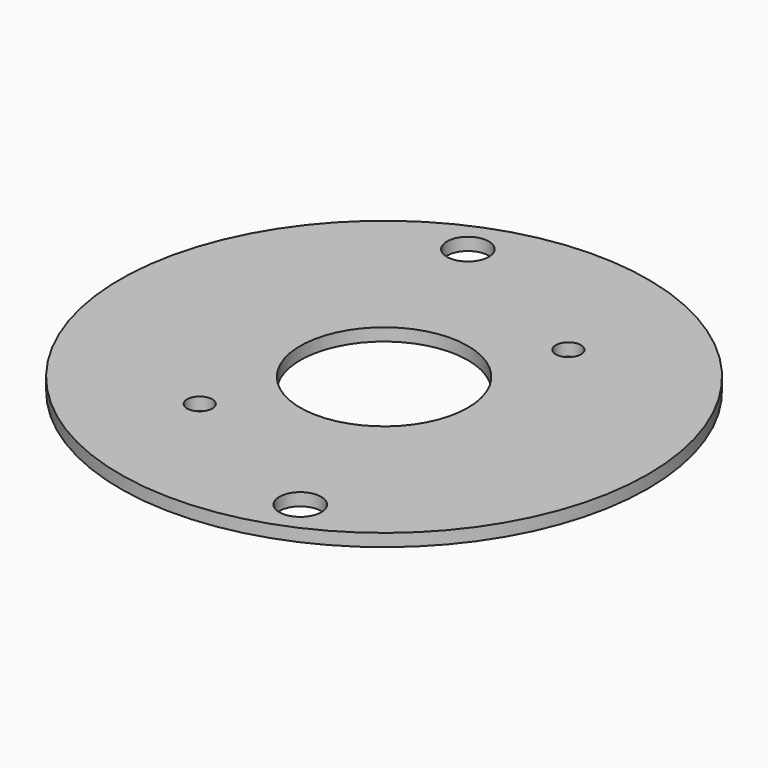
from build123d import *

# Parameters (mm, degrees)
SKETCH005_R   = 31.5
SKETCH005_R_2 = 2.5
SKETCH005_R_3 = 1.5
SKETCH005_R_4 = 10
PAD_DEPTH     = 1.5


with BuildPart() as part:
    # Sketch005 → Pad (new body)
    with BuildSketch(Plane.XY.offset(3)):
        Circle(SKETCH005_R)
        with Locations((-10, 25)):
            Circle(SKETCH005_R_2, mode=Mode.SUBTRACT)
        with Locations((10, -25)):
            Circle(SKETCH005_R_2, mode=Mode.SUBTRACT)
        with Locations((-10, -15)):
            Circle(SKETCH005_R_3, mode=Mode.SUBTRACT)
        with Locations((10, 15)):
            Circle(SKETCH005_R_3, mode=Mode.SUBTRACT)
        Circle(SKETCH005_R_4, mode=Mode.SUBTRACT)
    extrude(amount=PAD_DEPTH)


solid = part.part
